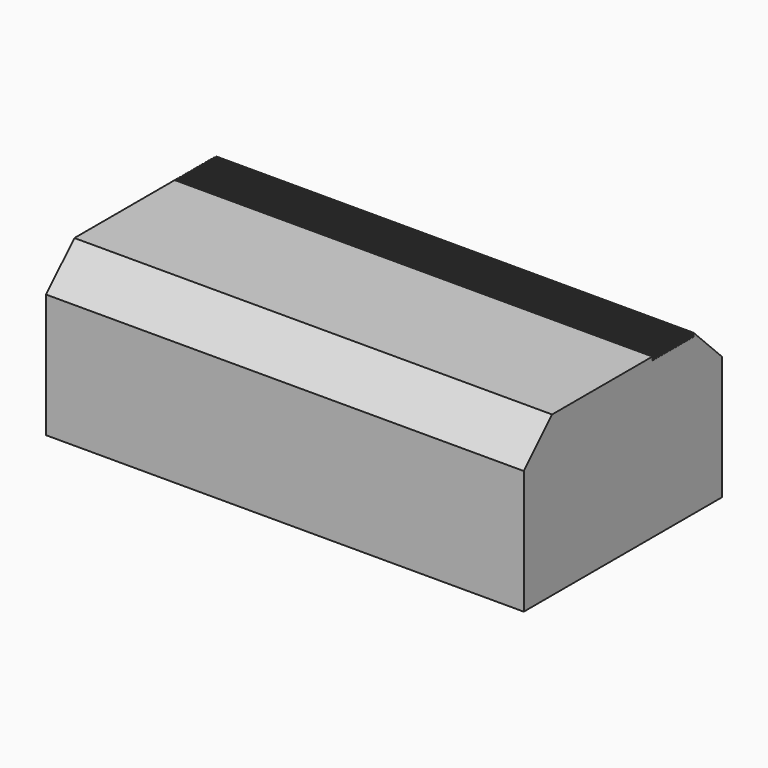
from build123d import *

# Parameters (mm, degrees)
F0_W     = 270
F0_H     = 140
F1_DEPTH = 90
F2_SIZE  = 20
F3_W     = 1
F3_H     = 2
F4_DEPTH = 270
F5_W     = 8
F5_H     = 8
F6_DEPTH = 4
F6_TAPER = 15


with BuildPart() as f1:
    # F0 (on Top) → F1 (new body)
    with BuildSketch(Plane.XY):
        Rectangle(F0_W, F0_H)
    extrude(amount=F1_DEPTH)

    # F2
    f2_edges = [f1.edges().sort_by_distance(p)[0] for p in [
        (0, -70, 90),
        (0, 70, 90),
    ]]
    chamfer(f2_edges, length=F2_SIZE)

    # F3 (on face) → F4 (cut, through all)
    with BuildSketch(Plane.YZ.offset(135)):
        with Locations((21.4087878466, 89)):
            Rectangle(F3_W, F3_H)
        with Locations((21.4087878466, 89)):
            Rectangle(F3_W, F3_H)
        with Locations((23.4087878466, 89)):
            Rectangle(F3_W, F3_H)
        with Locations((25.4087878466, 89)):
            Rectangle(F3_W, F3_H)
        with Locations((27.4087878466, 89)):
            Rectangle(F3_W, F3_H)
        with Locations((29.4087878466, 89)):
            Rectangle(F3_W, F3_H)
        with Locations((31.4087878466, 89)):
            Rectangle(F3_W, F3_H)
        with Locations((33.4087878466, 89)):
            Rectangle(F3_W, F3_H)
        with Locations((35.4087878466, 89)):
            Rectangle(F3_W, F3_H)
        with Locations((37.4087878466, 89)):
            Rectangle(F3_W, F3_H)
        with Locations((39.4087878466, 89)):
            Rectangle(F3_W, F3_H)
        with Locations((41.4087878466, 89)):
            Rectangle(F3_W, F3_H)
        with Locations((43.4087878466, 89)):
            Rectangle(F3_W, F3_H)
        with Locations((45.4087878466, 89)):
            Rectangle(F3_W, F3_H)
        with Locations((47.4087878466, 89)):
            Rectangle(F3_W, F3_H)
        with Locations((49.4087878466, 89)):
            Rectangle(F3_W, F3_H)
    extrude(amount=-F4_DEPTH, mode=Mode.SUBTRACT)

    # F5 (on face) → F6 (join)
    with BuildSketch(Plane(origin=(0, 0, 0), x_dir=(1, 0, 0), z_dir=(0, 0, -1))):
        with Locations((121, 56)):
            Rectangle(F5_W, F5_H)
        with Locations((121, -56)):
            Rectangle(F5_W, F5_H)
        with Locations((-121, 56)):
            Rectangle(F5_W, F5_H)
        with Locations((-121, -56)):
            Rectangle(F5_W, F5_H)
    extrude(amount=F6_DEPTH, taper=F6_TAPER)


solid = f1.part
